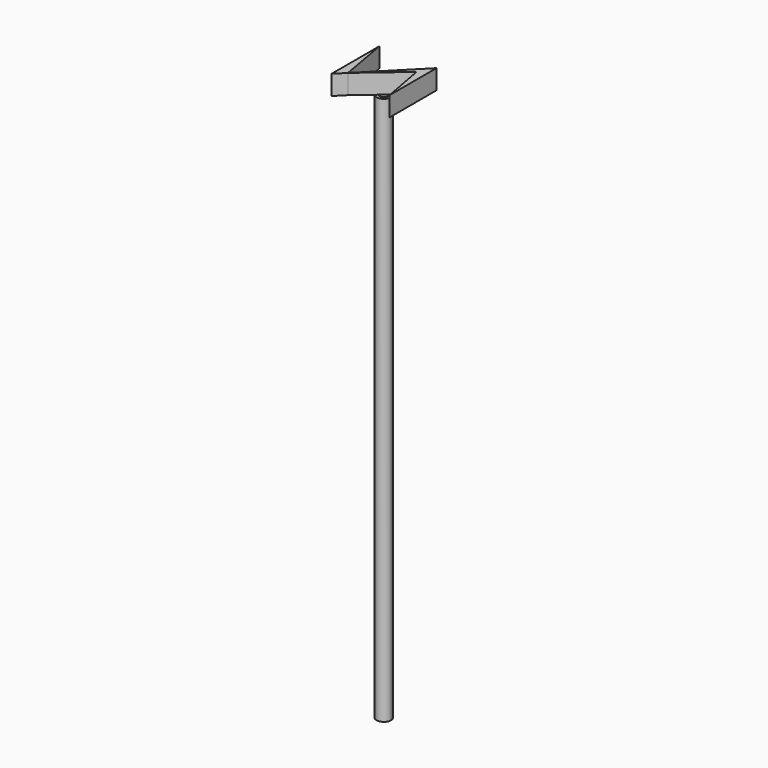
from build123d import *

# Parameters (mm, degrees)
F1_DEPTH = 25
F3_DEPTH = 700


with BuildPart() as f1:
    # F0 (on Top) → F1 (new body)
    with BuildSketch(Plane.XY):
        Polygon((7.7686894782, 20.6471044733), (-43.0160016085, -30.7388818882), (9.0659942176, 13.6355950443), align=None)
        Polygon((19.4357130677, 22.4707182497), (9.0659942176, 13.6355950443), (19.4357130677, -42.4093566835), align=None)
        Polygon((19.4357130677, 32.4522666633), (7.7686894782, 20.6471044733), (9.0659942176, 13.6355950443), (19.4357130677, 22.4707182497), align=None)
    extrude(amount=F1_DEPTH)


with BuildPart() as f1b:
    # F0 (on Top) → F1, piece 2 (new body)
    with BuildSketch(Plane.XY):
        Polygon((-43.0160016085, -30.7388818882), (-54.5499138534, 34.2137217522), (-54.5499138534, -42.4093566835), align=None)
    extrude(amount=F1_DEPTH)


with BuildPart() as f3:
    # F2 (on face) → F3 (new body)
    with BuildSketch(Plane(origin=(0, 0, 0), x_dir=(1, 0, 0), z_dir=(0, 0, -1))):
        with BuildLine():
            ThreePointArc((-8.75257057, 1.5460330711), (-7.1204420953, 4.3364534449), (-6.5530998085, 7.5189700512))
            ThreePointArc((-6.5530998085, 7.5189700512), (-12.5804459811, 16.1614905435), (-22.7733546051, 13.4919070314))
            Line((-22.7733546051, 13.4919070314), (-19.7716575849, 10.9344256395))
            ThreePointArc((-19.7716575849, 10.9344256395), (-13.9431302062, 12.4609516944), (-10.4965622555, 7.5189700512))
            ThreePointArc((-10.4965622555, 7.5189700512), (-10.8209809444, 5.6991376699), (-11.7542675901, 4.103514463))
            Line((-11.7542675901, 4.103514463), (-8.75257057, 1.5460330711))
        make_face()
    extrude(amount=F3_DEPTH)


with BuildPart() as f3b:
    # F2 (on face) → F3, piece 2 (new body)
    with BuildSketch(Plane(origin=(0, 0, 0), x_dir=(1, 0, 0), z_dir=(0, 0, -1))):
        with BuildLine():
            Line((-20.9526913799, 8.4143400974), (-24.0463962975, 11.5446747574))
            ThreePointArc((-24.0463962975, 11.5446747574), (-22.3135321176, 1.0450522853), (-11.8350327541, -0.8112724202))
            Line((-11.8350327541, -0.8112724202), (-14.9287376718, 2.3190622398))
            ThreePointArc((-14.9287376718, 2.3190622398), (-19.5087210615, 3.8170427272), (-20.9526913799, 8.4143400974))
        make_face()
    extrude(amount=F3_DEPTH)


solid = Compound([f1.part, f1b.part, f3.part, f3b.part])
